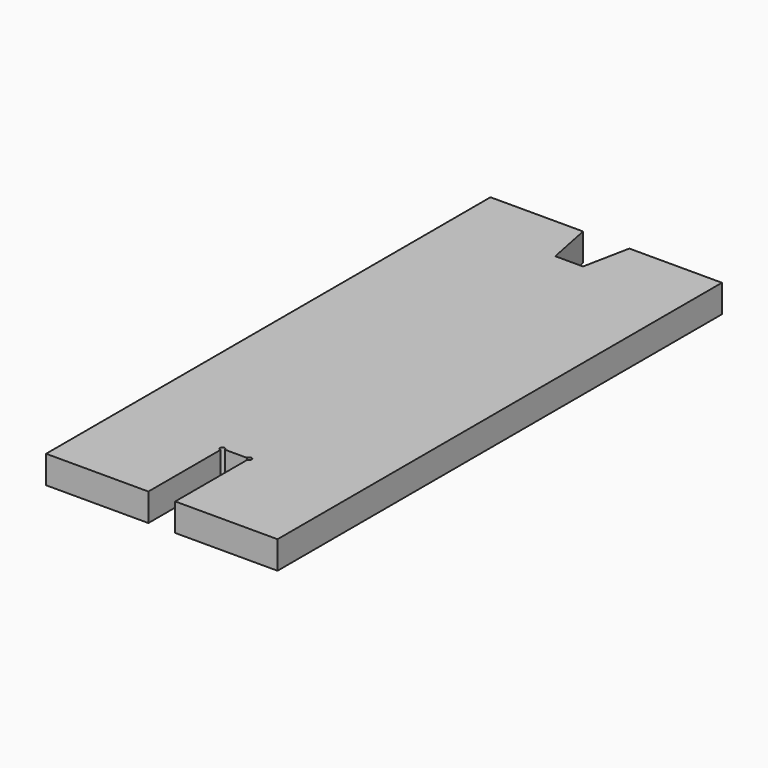
from build123d import *

# Parameters (mm, degrees)
F1_DEPTH = 3


with BuildPart() as f1:
    # F0 (on Top) → F1 (new body)
    with BuildSketch(Plane.XY):
        with BuildLine():
            Line((-2.5, 24.230767), (-12.5, 24.230767))
            Line((-12.5, 24.230767), (-12.5, -35.769233))
            Line((-12.5, -35.769233), (-1.45, -35.769233))
            Line((-1.45, -35.769233), (-1.45, -26.019233))
            ThreePointArc((-1.45, -26.019233), (-1.626777, -25.592457), (-1.2, -25.769233))
            Line((-1.2, -25.769233), (1.2, -25.769233))
            ThreePointArc((1.2, -25.769233), (1.45, -25.519233), (1.7, -25.769233))
            ThreePointArc((1.7, -25.769233), (1.626777, -25.94601), (1.45, -26.019233))
            Line((1.45, -26.019233), (1.45, -35.769233))
            Line((1.45, -35.769233), (12.5, -35.769233))
            Line((12.5, -35.769233), (12.5, 24.230767))
            Line((12.5, 24.230767), (2.5, 24.230767))
            Line((2.5, 24.230767), (1.5, 19.230767))
            Line((1.5, 19.230767), (-1.5, 19.230767))
            Line((-1.5, 19.230767), (-2.5, 24.230767))
        make_face()
    extrude(amount=F1_DEPTH)


solid = f1.part
